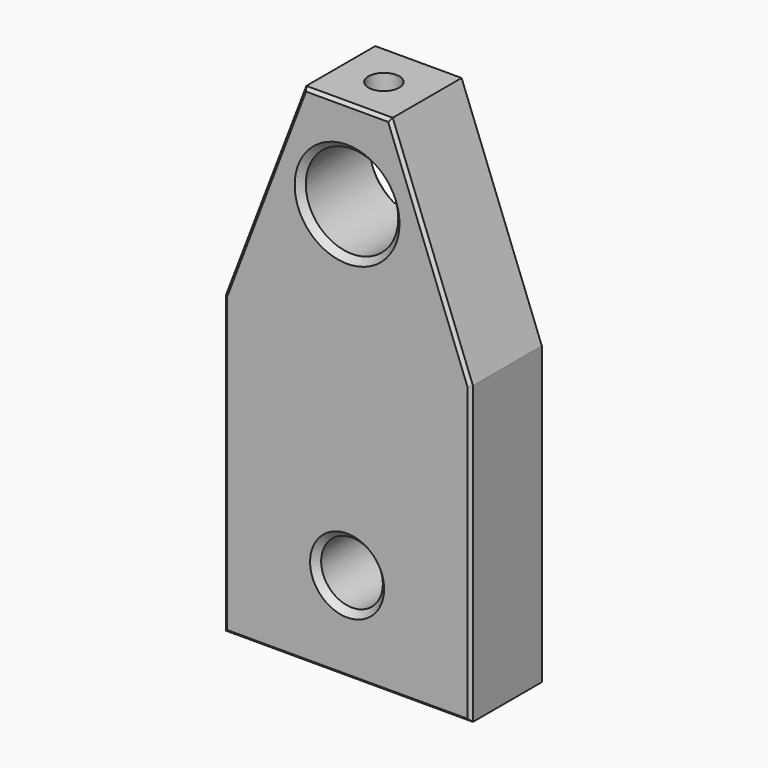
from build123d import *

# Parameters (mm, degrees)
F1_DEPTH = 18.9992
F2_R     = 9.525
F3_DEPTH = 25.4
F4_R     = 6.35
F5_DEPTH = 25.4
F6_R     = 3.175
F7_DEPTH = 12.7
F8_SIZE2 = 1.27
F8_SIZE  = 1.27
F9_SIZE  = 0.635


with BuildPart() as f1:
    # F0 (on Front) → F1 (new body)
    with BuildSketch(Plane.XZ):
        Polygon((7.785652, 26.052904), (-9.994348, 26.052904), (-26.504348, -17.127096), (-26.504348, -78.087096), (24.295652, -78.087096), (24.295652, -17.127096), align=None)
    extrude(amount=F1_DEPTH)

    # F2 (on face) → F3 (cut)
    with BuildSketch(Plane.XZ.offset(18.9992)):
        with Locations((-1.104348, 7.739504)):
            Circle(F2_R)
    extrude(amount=-F3_DEPTH, mode=Mode.SUBTRACT)

    # F4 (on face) → F5 (cut)
    with BuildSketch(Plane.XZ.offset(18.9992)):
        with Locations((-1.104348, -59.545096)):
            Circle(F4_R)
    extrude(amount=-F5_DEPTH, mode=Mode.SUBTRACT)

    # F6 (on face) → F7 (cut)
    with BuildSketch(Plane.XY.offset(26.052904)):
        with Locations((-1.104348, -9.525)):
            Circle(F6_R)
    extrude(amount=-F7_DEPTH, mode=Mode.SUBTRACT)

    # F8
    f8_edges = [f1.edges().sort_by_distance(p)[0] for p in [
        (-10.629348, -18.9992, 7.739504),
        (-7.454348, -18.9992, -59.545096),
        (-10.629348, 0, 7.739504),
        (-7.454348, 0, -59.545096),
    ]]
    chamfer(f8_edges, length=F8_SIZE, length2=F8_SIZE2)

    # F9
    f9_edges = [f1.edges().sort_by_distance(p)[0] for p in [
        (-18.249348, 0, 4.462904),
        (-26.504348, 0, -47.607096),
        (-1.104348, 0, -78.087096),
        (24.295652, 0, -47.607096),
        (16.040652, 0, 4.462904),
        (-1.104348, 0, 26.052904),
        (-26.504348, -18.9992, -47.607096),
        (-1.104348, -18.9992, -78.087096),
        (24.295652, -18.9992, -47.607096),
        (16.040652, -18.9992, 4.462904),
        (-1.104348, -18.9992, 26.052904),
        (-18.249348, -18.9992, 4.462904),
    ]]
    chamfer(f9_edges, length=F9_SIZE)


solid = f1.part
